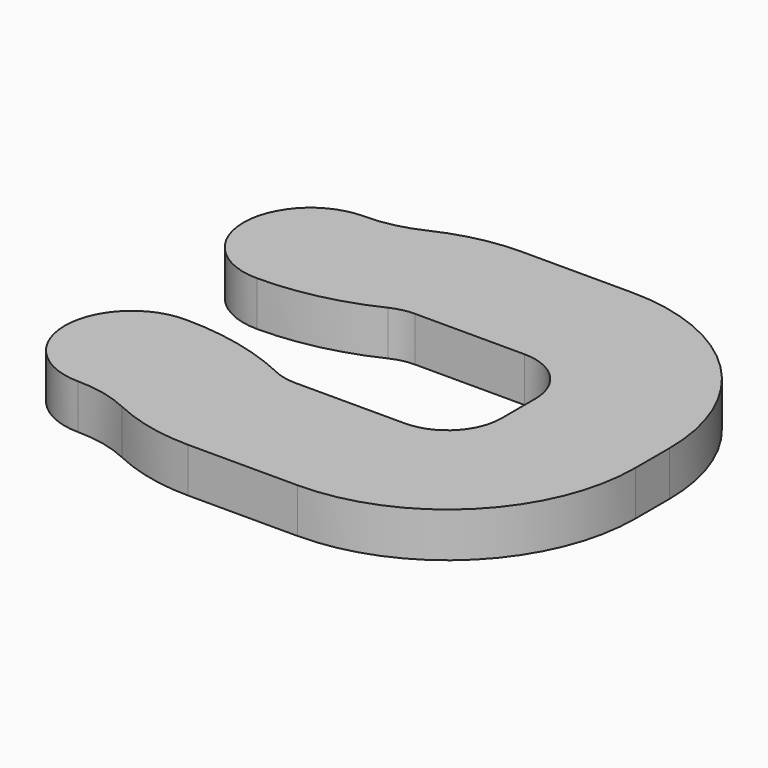
from build123d import *

# Parameters (mm, degrees)
PAD_DEPTH = 1


with BuildPart() as part:
    # Sketch → Pad (new body)
    with BuildSketch(Plane.XY):
        with BuildLine():
            ThreePointArc((-1.225, 1.675), (-1.488415, 1.645732), (-1.73898, 1.559355))
            ThreePointArc((-4.225, 1), (-2.950915, 1.141565), (-1.73898, 1.559355))
            ThreePointArc((-4.225, 4), (-5.725, 2.5), (-4.225, 1))
            ThreePointArc((-4.225, 4), (-3.609451, 4.068394), (-3.023929, 4.270241))
            ThreePointArc((-1.225, 4.675), (-2.146951, 4.572561), (-3.023929, 4.270241))
            Line((-1.225, 4.675), (1.225012, 4.675))
            ThreePointArc((5.425, 0.475), (4.194853, 3.444844), (1.225012, 4.675))
            Line((5.425, -0.475), (5.425, 0.475))
            ThreePointArc((1.225, -4.675), (4.194848, -3.444848), (5.425, -0.475))
            Line((-1.225, -4.675), (1.225, -4.675))
            ThreePointArc((-3.023929, -4.270241), (-2.146951, -4.572561), (-1.225, -4.675))
            ThreePointArc((-3.023929, -4.270241), (-3.609451, -4.068394), (-4.225, -4))
            ThreePointArc((-4.225, -1), (-5.725, -2.5), (-4.225, -4))
            ThreePointArc((-1.73898, -1.559355), (-2.950915, -1.141565), (-4.225, -1))
            ThreePointArc((-1.73898, -1.559355), (-1.488415, -1.645732), (-1.225, -1.675))
            Line((-1.225, -1.675), (1.225, -1.675))
            ThreePointArc((1.225, -1.675), (2.073528, -1.323528), (2.425, -0.475))
            Line((2.425, 0.475), (2.425, -0.475))
            ThreePointArc((2.425, 0.475), (2.073532, 1.323524), (1.225012, 1.675))
            Line((-1.225, 1.675), (1.225012, 1.675))
        make_face()
    extrude(amount=PAD_DEPTH)


solid = part.part
